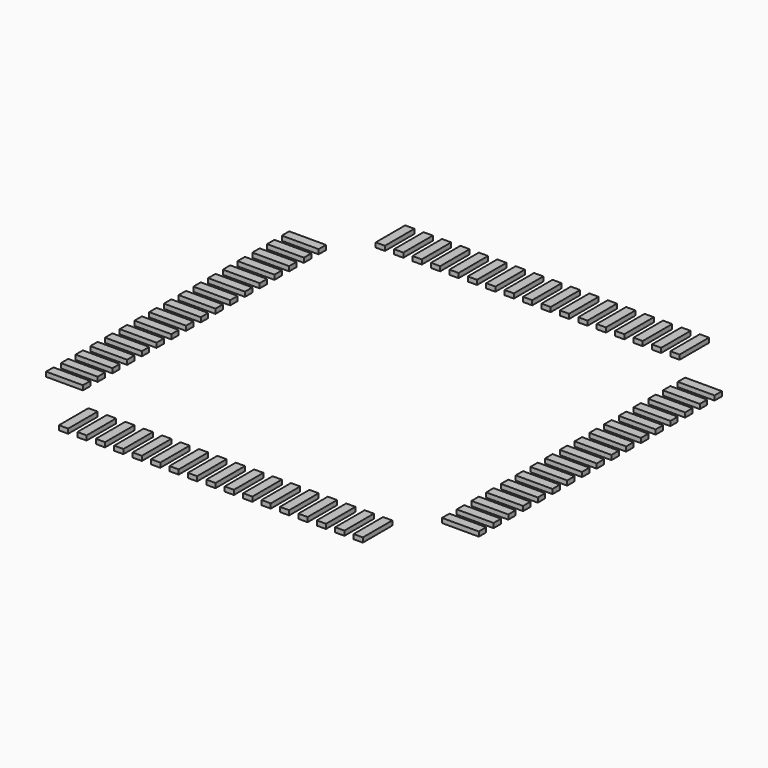
from build123d import *

# Parameters (mm, degrees)
BOX035_W                = 0.2
BOX035_H                = 0.8
BOX035_DEPTH            = 0.1
ARRAY013_X_COUNT        = 17
ARRAY013_X_PITCH        = 0.4
ARRAY013_Y_COUNT        = 2
ARRAY013_Y_PITCH        = 8.6
LINK001_PLACEMENT_ANGLE = 90


with BuildPart() as array013:
    # Box035 → Box035 (new body)
    with BuildSketch(Plane(origin=(-3.3, 3.9, 0), x_dir=(1, 0, 0), z_dir=(0, 0, 1))):
        with Locations((0.1, 0.4)):
            Rectangle(BOX035_W, BOX035_H)
    extrude(amount=BOX035_DEPTH)

    # Array013 X: Array013 ×17


with BuildPart() as array013_1:
    add(array013.part)
    with Locations(*[(i * ARRAY013_X_PITCH, 0, 0) for i in range(1, ARRAY013_X_COUNT)]):
        add(array013.part)

    # Array013 Y: Array013 ×2


with BuildPart() as array013_2:
    add(array013_1.part)
    with Locations(*[(0, -i * ARRAY013_Y_PITCH, 0) for i in range(1, ARRAY013_Y_COUNT)]):
        add(array013_1.part)


with BuildPart() as array012:
    # Link001 base: copy of Array013
    add(array013_2.part)


with BuildPart() as array012_1:
    # Link001 placement: moved
    add(array012.part.rotate(Axis((0, 0, 0), (0, 0, 1)), LINK001_PLACEMENT_ANGLE))


with BuildPart() as pins:
    # Fusion023 base: copy of Array013
    add(array013_2.part)

    # Fusion023: union Array012
    add(array012_1.part)


solid = pins.part
